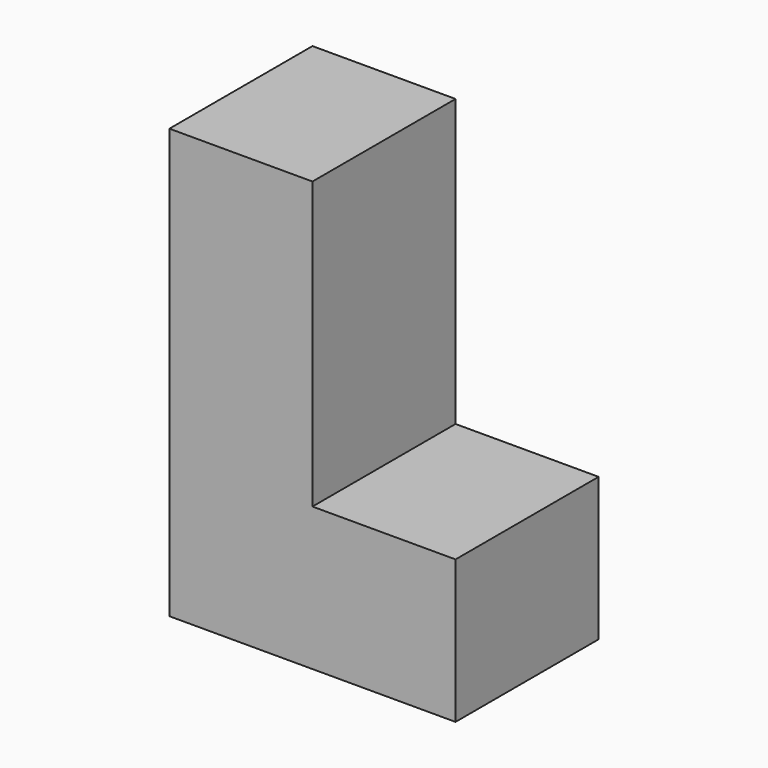
from build123d import *

# Parameters (mm, degrees)
F0_W     = 20
F0_H     = 25
F1_DEPTH = 60
F2_DEPTH = 20
F4_START = -5
F3_R     = 8
F4_DEPTH = 20


with BuildPart() as f1:
    # F0 (on Top) → F1 (new body)
    with BuildSketch(Plane.XY):
        with Locations((-10, 0)):
            Rectangle(F0_W, F0_H)
    extrude(amount=F1_DEPTH)

    # F0 (on Top) → F2 (join)
    with BuildSketch(Plane.XY):
        with Locations((10, 0)):
            Rectangle(F0_W, F0_H)
    extrude(amount=F2_DEPTH)

    # F3 (on face) → F4 (cut)
    with BuildSketch(Plane.XZ.offset(12.5).offset(F4_START)):
        with Locations((-10, 50)):
            Circle(F3_R)
    extrude(amount=-F4_DEPTH, mode=Mode.SUBTRACT)


solid = f1.part
